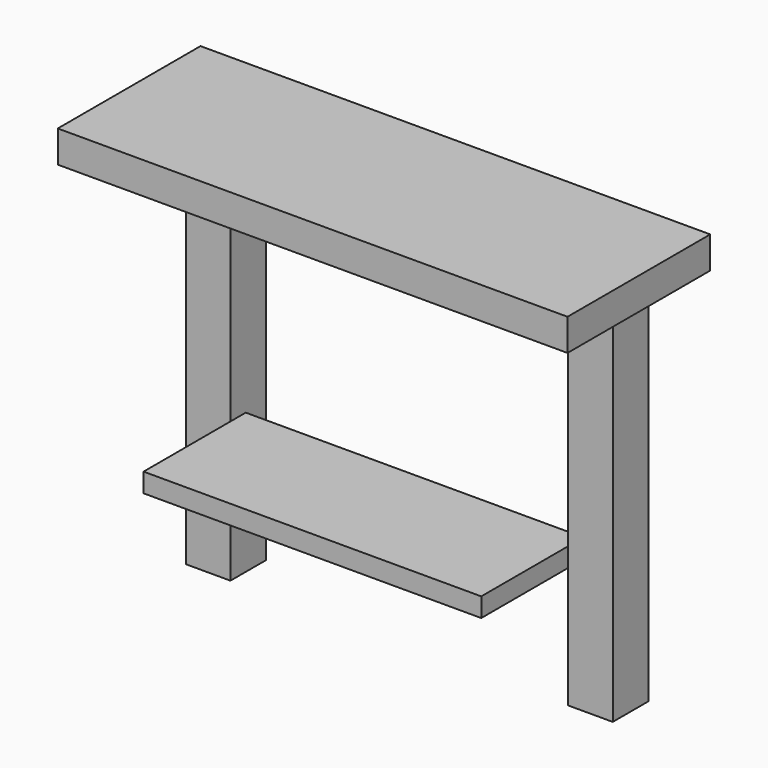
from build123d import *

# Parameters (mm, degrees)
F0_W     = 336.55
F0_H     = 44.45
F1_DEPTH = 44.45
F2_W     = 508
F2_H     = 177.8
F3_DEPTH = 31.75
F6_DEPTH = 19.05


with BuildPart() as f1:
    # F0 (on Front) → F1 (new body)
    with BuildSketch(Plane.XZ):
        Rectangle(F0_W, F0_H)
        Polygon((-168.275, -22.225), (-168.275, 22.225), (-212.725, 22.225), (-212.725, -358.775), (-168.275, -358.775), align=None)
        Polygon((212.725, 22.225), (168.275, 22.225), (168.275, -22.225), (168.275, -358.775), (212.725, -358.775), align=None)
    extrude(amount=F1_DEPTH)

    # F2 (on face) → F3 (join)
    with BuildSketch(Plane.XY.offset(22.225)):
        with Locations((0, -63.5)):
            Rectangle(F2_W, F2_H)
    extrude(amount=F3_DEPTH)

    # F5 (on offset) → F6 (join)
    with BuildSketch(Plane(origin=(0, 0, -219.075), x_dir=(1, 0, 0), z_dir=(0, 0, -1))):
        Polygon((-168.275, 44.45), (-168.275, 25.4), (168.275, 25.4), (168.275, 44.45), (168.275, 152.6916772127), (-168.275, 152.6916772127), align=None)
    extrude(amount=F6_DEPTH)


solid = f1.part
